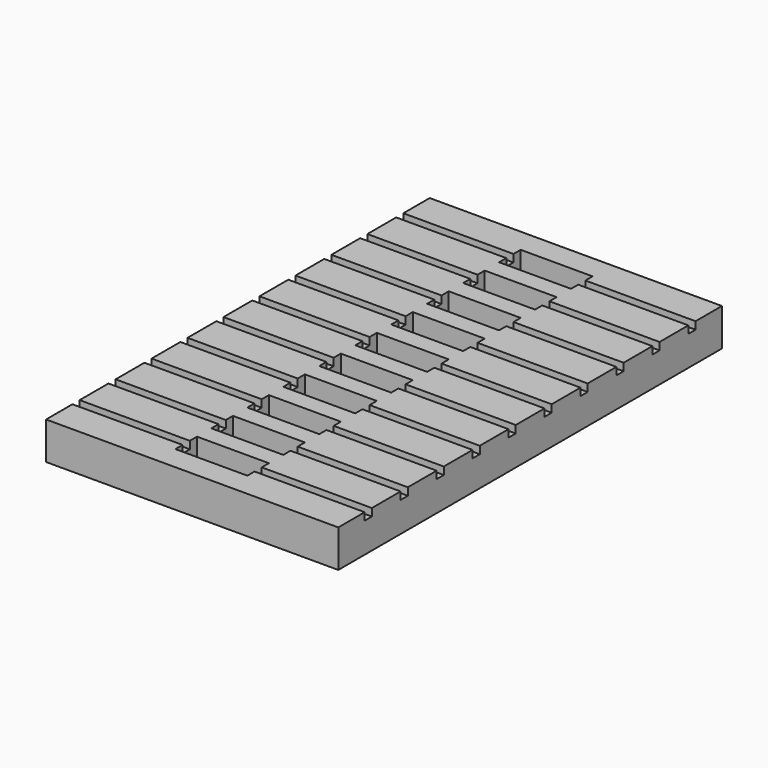
from build123d import *

# Parameters (mm, degrees)
F0_W     = 49.53
F0_H     = 81.28
F1_DEPTH = 6.35
F2_W     = 12.192
F2_H     = 4.572
F3_DEPTH = 3.302
F4_W     = 18.669
F4_H     = 1.524
F5_DEPTH = 1.27


with BuildPart() as f1:
    # F0 (on Top) → F1 (new body)
    with BuildSketch(Plane.XY):
        with Locations((24.765, 40.64)):
            Rectangle(F0_W, F0_H)
    extrude(amount=F1_DEPTH)

    # F2 (on face) → F3 (cut)
    with BuildSketch(Plane.XY.offset(6.35)):
        with Locations((24.765, 6.35)):
            Rectangle(F2_W, F2_H)
        with Locations((24.765, 13.97)):
            Rectangle(F2_W, F2_H)
        with Locations((24.765, 21.59)):
            Rectangle(F2_W, F2_H)
        with Locations((24.765, 29.21)):
            Rectangle(F2_W, F2_H)
        with Locations((24.765, 36.83)):
            Rectangle(F2_W, F2_H)
        with Locations((24.765, 44.45)):
            Rectangle(F2_W, F2_H)
        with Locations((24.765, 52.07)):
            Rectangle(F2_W, F2_H)
        with Locations((24.765, 59.69)):
            Rectangle(F2_W, F2_H)
        with Locations((24.765, 67.31)):
            Rectangle(F2_W, F2_H)
        with Locations((24.765, 74.93)):
            Rectangle(F2_W, F2_H)
    extrude(amount=-F3_DEPTH, mode=Mode.SUBTRACT)

    # F4 (on face) → F5 (cut)
    with BuildSketch(Plane.XY.offset(6.35)):
        with Locations((40.1955, 6.35)):
            Rectangle(F4_W, F4_H)
        with Locations((9.3345, 6.35)):
            Rectangle(F4_W, F4_H)
        with Locations((9.3345, 13.97)):
            Rectangle(F4_W, F4_H)
        with Locations((40.1955, 13.97)):
            Rectangle(F4_W, F4_H)
        with Locations((9.3345, 21.59)):
            Rectangle(F4_W, F4_H)
        with Locations((40.1955, 21.59)):
            Rectangle(F4_W, F4_H)
        with Locations((9.3345, 29.21)):
            Rectangle(F4_W, F4_H)
        with Locations((40.1955, 29.21)):
            Rectangle(F4_W, F4_H)
        with Locations((9.3345, 36.83)):
            Rectangle(F4_W, F4_H)
        with Locations((40.1955, 36.83)):
            Rectangle(F4_W, F4_H)
        with Locations((9.3345, 44.45)):
            Rectangle(F4_W, F4_H)
        with Locations((40.1955, 44.45)):
            Rectangle(F4_W, F4_H)
        with Locations((9.3345, 52.07)):
            Rectangle(F4_W, F4_H)
        with Locations((40.1955, 52.07)):
            Rectangle(F4_W, F4_H)
        with Locations((9.3345, 59.69)):
            Rectangle(F4_W, F4_H)
        with Locations((40.1955, 59.69)):
            Rectangle(F4_W, F4_H)
        with Locations((9.3345, 67.31)):
            Rectangle(F4_W, F4_H)
        with Locations((40.1955, 67.31)):
            Rectangle(F4_W, F4_H)
        with Locations((9.3345, 74.93)):
            Rectangle(F4_W, F4_H)
        with Locations((40.1955, 74.93)):
            Rectangle(F4_W, F4_H)
    extrude(amount=-F5_DEPTH, mode=Mode.SUBTRACT)


solid = f1.part
